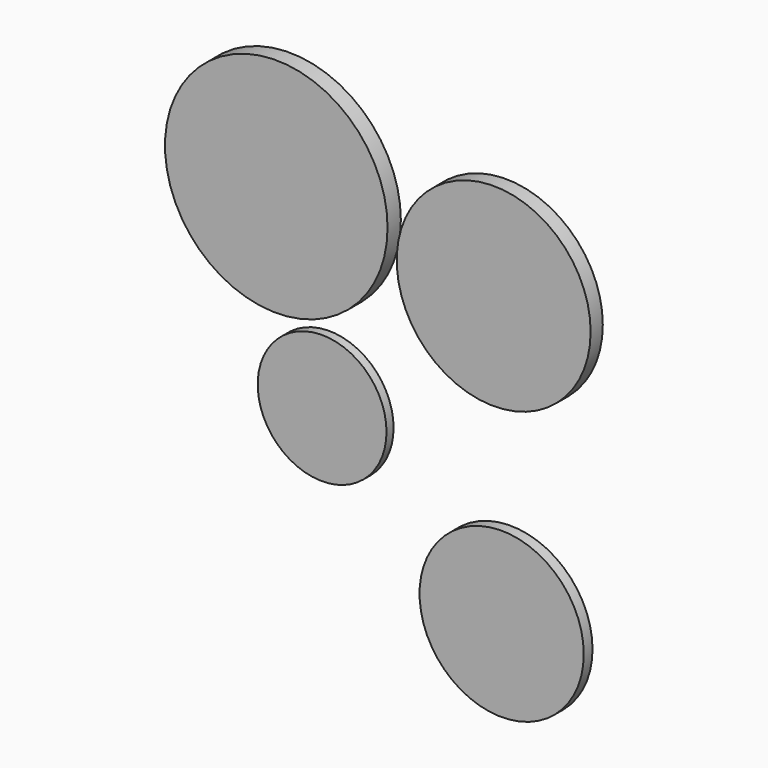
from build123d import *

# Parameters (mm, degrees)
F0_R     = 15.725
F1_DEPTH = 2.35
F2_R     = 13.7
F3_DEPTH = 2.15
F4_R     = 11.6
F5_DEPTH = 1.55
F6_R     = 9.1
F7_DEPTH = 1.25


with BuildPart() as f1:
    # F0 (on Front) → F1 (new body)
    with BuildSketch(Plane.XZ):
        with Locations((23.956396, 9.308519)):
            Circle(F0_R)
    extrude(amount=F1_DEPTH)


with BuildPart() as f3:
    # F2 (on Front) → F3 (new body)
    with BuildSketch(Plane.XZ):
        with Locations((54.518301, 5.552593)):
            Circle(F2_R)
    extrude(amount=F3_DEPTH)


with BuildPart() as f5:
    # F4 (on Front) → F5 (new body)
    with BuildSketch(Plane.XZ):
        with Locations((55.164609, -35.268139)):
            Circle(F4_R)
    extrude(amount=F5_DEPTH)


with BuildPart() as f7:
    # F6 (on Front) → F7 (new body)
    with BuildSketch(Plane.XZ):
        with Locations((29.553156, -16.876528)):
            Circle(F6_R)
    extrude(amount=F7_DEPTH)


solid = Compound([f1.part, f3.part, f5.part, f7.part])
